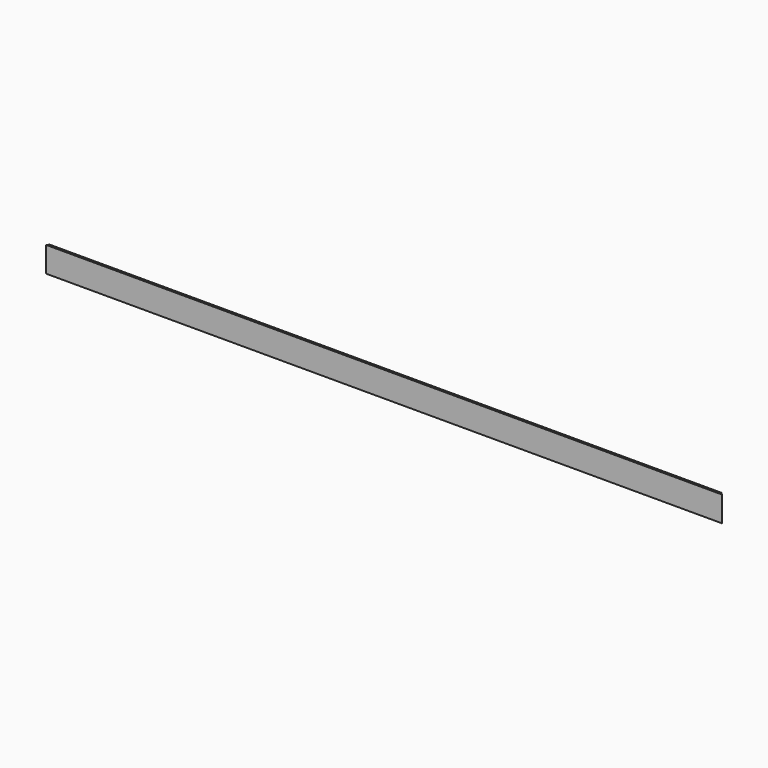
from build123d import *

# Parameters (mm, degrees)
F1_DEPTH = 2032
F3_DEPTH = 76.2


with BuildPart() as f1:
    # F0 (on Right) → F1 (new body)
    with BuildSketch(Plane.YZ):
        Polygon((6.35, 76.2), (0, 76.2), (0, 0), (76.2, 0), (76.2, 6.35), (6.35, 6.35), align=None)
    extrude(amount=-F1_DEPTH)

    # F2 (on face) → F3 (cut)
    with BuildSketch(Plane.XY.offset(76.2)):
        Polygon((0, 0), (0, 76.2), (-76.2, 76.2), align=None)
        Polygon((-2032, 76.2), (-2032, 0), (-1955.8, 76.2), align=None)
    extrude(amount=-F3_DEPTH, mode=Mode.SUBTRACT)


solid = f1.part
